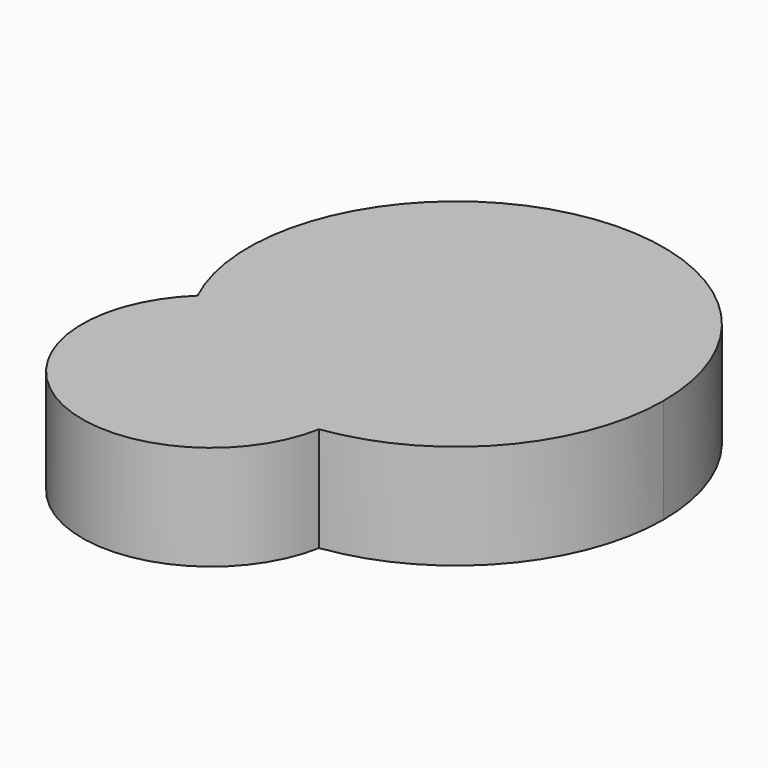
from build123d import *

# Parameters (mm, degrees)
F1_DEPTH = 19.0296750516


with BuildPart() as f1:
    # F0 (on Top) → F1 (new body)
    with BuildSketch(Plane.XY):
        with BuildLine():
            ThreePointArc((18.653517743, -12.9901279925), (18.945339992, -10.8717792151), (19.042884714, -8.7356502876))
            ThreePointArc((19.042884714, -8.7356502876), (4.881069281, 12.7887610555), (-20.4907506445, 8.3023311067))
            ThreePointArc((-20.4907506445, 8.3023311067), (-4.3953991403, -8.7356502876), (18.653517743, -12.9901279925))
        make_face()
        with BuildLine():
            ThreePointArc((-20.4907506445, 8.3023311067), (4.881069281, 12.7887610555), (19.042884714, -8.7356502876))
            ThreePointArc((19.042884714, -8.7356502876), (18.945339992, -10.8717792151), (18.653517743, -12.9901279925))
            ThreePointArc((18.653517743, -12.9901279925), (42.0526448058, -0.4327845717), (51.3930701633, 24.4260664722))
            ThreePointArc((51.3930701633, 24.4260664722), (5.3806788354, 61.2610313021), (-20.4907506445, 8.3023311067))
        make_face()
        with BuildLine():
            ThreePointArc((18.653517743, -12.9901279925), (-4.3953991403, -8.7356502876), (-20.4907506445, 8.3023311067))
            ThreePointArc((-20.4907506445, 8.3023311067), (-15.5949625913, -29.3250390241), (18.653517743, -12.9901279925))
        make_face()
    extrude(amount=F1_DEPTH)


solid = f1.part
